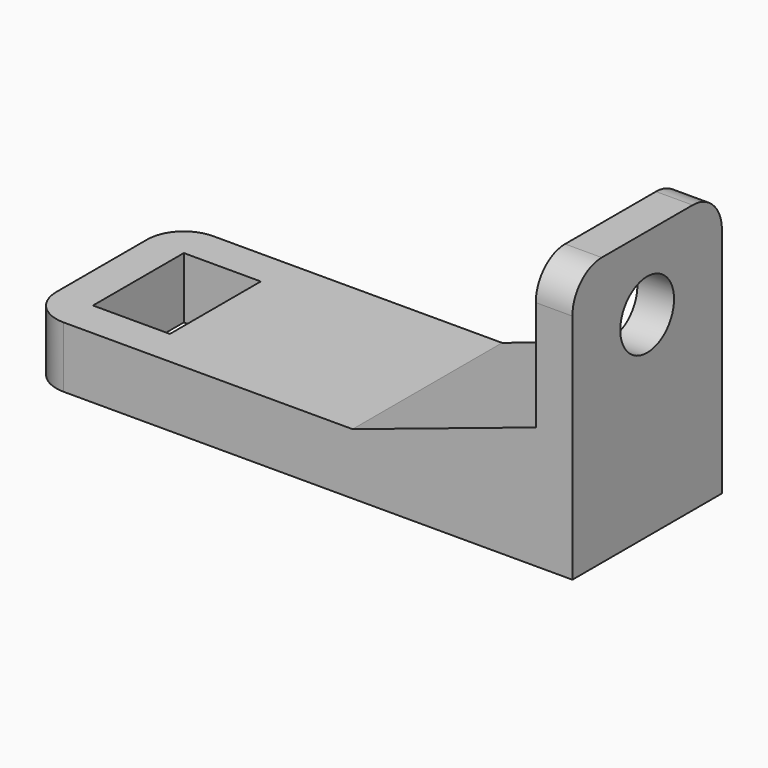
from build123d import *

# Parameters (mm, degrees)
SKETCH063_W   = 6.3
SKETCH063_H   = 9.3
PAD029_DEPTH  = 5
SKETCH064_R   = 2.75
PAD030_DEPTH  = 3
CHAMFER_SIZE2 = 5
CHAMFER_SIZE  = 15


with BuildPart() as part:
    # Sketch063 → Pad029 (new body)
    with BuildSketch(Plane.XY):
        with BuildLine():
            Line((-6.15, 4.65), (-6.15, -4.65))
            ThreePointArc((-6.15, -4.65), (-5.27132, -6.77132), (-3.15, -7.65))
            Line((-3.15, -7.65), (38.5, -7.65))
            Line((38.5, -7.65), (38.5, 7.65))
            Line((38.5, 7.65), (-3.15, 7.65))
            ThreePointArc((-3.15, 7.65), (-5.27132, 6.77132), (-6.15, 4.65))
        make_face()
        Rectangle(SKETCH063_W, SKETCH063_H, mode=Mode.SUBTRACT)
    extrude(amount=PAD029_DEPTH)

    # Sketch064 (on Face4 of Pad029) → Pad030 (join)
    with BuildSketch(Plane.YZ.offset(38.5)):
        with BuildLine():
            Line((-7.65, 19), (-7.65, 5))
            Line((-7.65, 5), (7.65, 5))
            Line((7.65, 5), (7.65, 19))
            ThreePointArc((7.65, 19), (6.77132, 21.12132), (4.65, 22))
            Line((4.65, 22), (-4.65, 22))
            ThreePointArc((-4.65, 22), (-6.77132, 21.12132), (-7.65, 19))
        make_face()
        with Locations((0, 16)):
            Circle(SKETCH064_R, mode=Mode.SUBTRACT)
    extrude(amount=-PAD030_DEPTH)

    # Chamfer
    chamfer_edges = [part.edges().sort_by_distance(p)[0] for p in [
        (35.5, 0, 5),
    ]]
    chamfer_side = part.faces().sort_by_distance((16.306308, 0, 5))[0]
    chamfer(chamfer_edges, length=CHAMFER_SIZE, length2=CHAMFER_SIZE2, reference=chamfer_side)


with BuildPart() as part_1:
    # Body017 placement: moved
    add(part.part.moved(Location((3, -2.6e-05, 214))))


solid = part_1.part
